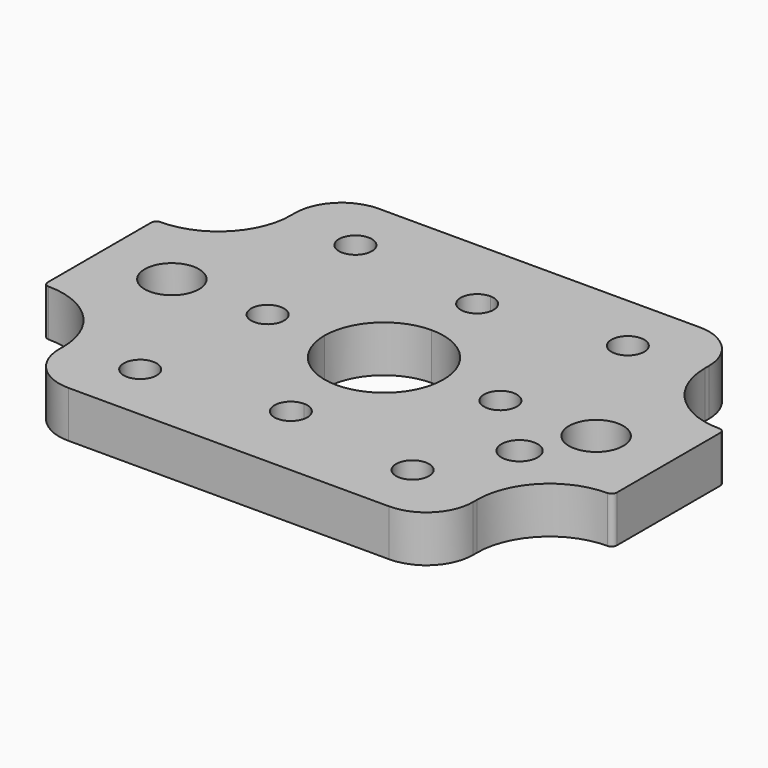
from build123d import *

# Parameters (mm, degrees)
F0_R     = 3.175
F0_R_2   = 3.5
F1_DEPTH = 9


with BuildPart() as f1:
    # F0 (on Top) → F1 (new body)
    with BuildSketch(Plane.XY):
        with BuildLine():
            Line((0, 25.675), (0, 37.5))
            Line((0, 37.5), (-31, 37.5))
            ThreePointArc((-31, 37.5), (-37.363961, 34.863961), (-40, 28.5))
            Line((-40, 28.5), (-40, 27.5))
            ThreePointArc((-40, 27.5), (-44.100505, 17.600505), (-54, 13.5))
            ThreePointArc((-54, 13.5), (-54.707107, 13.207107), (-55, 12.5))
            Line((-55, 12.5), (-55, 0))
            Line((-55, 0), (-46.25, 0))
            ThreePointArc((-46.25, 0), (-41, 5.25), (-35.75, 0))
            Line((-35.75, 0), (-25.675, 0))
            ThreePointArc((-25.675, 0), (-22.5, 3.175), (-19.325, 0))
            Line((-19.325, 0), (-11.5, 0))
            ThreePointArc((-11.5, 0), (-8.131728, 8.131728), (0, 11.5))
            Line((0, 11.5), (0, 19.325))
            ThreePointArc((0, 19.325), (-3.175, 22.5), (0, 25.675))
        make_face()
        with Locations((-26.324893, 26)):
            Circle(F0_R, mode=Mode.SUBTRACT)
        with BuildLine():
            Line((31, 37.5), (0, 37.5))
            Line((0, 37.5), (0, 25.675))
            ThreePointArc((0, 25.675), (2.245064, 24.745064), (3.175, 22.5))
            ThreePointArc((3.175, 22.5), (2.245064, 20.254936), (0, 19.325))
            Line((0, 19.325), (0, 11.5))
            ThreePointArc((0, 11.5), (8.131728, 8.131728), (11.5, 0))
            Line((11.5, 0), (19.325, 0))
            ThreePointArc((19.325, 0), (22.5, 3.175), (25.675, 0))
            Line((25.675, 0), (35.75, 0))
            ThreePointArc((35.75, 0), (41, 5.25), (46.25, 0))
            Line((46.25, 0), (55, 0))
            Line((55, 0), (55, 12.5))
            ThreePointArc((55, 12.5), (54.707107, 13.207107), (54, 13.5))
            ThreePointArc((54, 13.5), (44.100505, 17.600505), (40, 27.5))
            Line((40, 27.5), (40, 28.5))
            ThreePointArc((40, 28.5), (37.363961, 34.863961), (31, 37.5))
        make_face()
        with Locations((26.324893, 26)):
            Circle(F0_R, mode=Mode.SUBTRACT)
        with BuildLine():
            Line((19.325, 0), (11.5, 0))
            ThreePointArc((11.5, 0), (8.131728, -8.131728), (0, -11.5))
            Line((0, -11.5), (0, -19.325))
            ThreePointArc((0, -19.325), (2.245064, -20.254936), (3.175, -22.5))
            ThreePointArc((3.175, -22.5), (2.245064, -24.745064), (0, -25.675))
            Line((0, -25.675), (0, -37.5))
            Line((0, -37.5), (31, -37.5))
            ThreePointArc((31, -37.5), (37.363961, -34.863961), (40, -28.5))
            Line((40, -28.5), (40, -27.5))
            ThreePointArc((40, -27.5), (44.100505, -17.600505), (54, -13.5))
            ThreePointArc((54, -13.5), (54.707107, -13.207107), (55, -12.5))
            Line((55, -12.5), (55, 0))
            Line((55, 0), (46.25, 0))
            ThreePointArc((46.25, 0), (41, -5.25), (35.75, 0))
            Line((35.75, 0), (25.675, 0))
            ThreePointArc((25.675, 0), (22.5, -3.175), (19.325, 0))
        make_face()
        with Locations((26.324893, -26)):
            Circle(F0_R, mode=Mode.SUBTRACT)
        with Locations((35, -11)):
            Circle(F0_R_2, mode=Mode.SUBTRACT)
        with BuildLine():
            ThreePointArc((0, -11.5), (-8.131728, -8.131728), (-11.5, 0))
            Line((-11.5, 0), (-19.325, 0))
            ThreePointArc((-19.325, 0), (-22.5, -3.175), (-25.675, 0))
            Line((-25.675, 0), (-35.75, 0))
            ThreePointArc((-35.75, 0), (-41, -5.25), (-46.25, 0))
            Line((-46.25, 0), (-55, 0))
            Line((-55, 0), (-55, -12.5))
            ThreePointArc((-55, -12.5), (-54.707107, -13.207107), (-54, -13.5))
            ThreePointArc((-54, -13.5), (-44.100505, -17.600505), (-40, -27.5))
            Line((-40, -27.5), (-40, -28.5))
            ThreePointArc((-40, -28.5), (-37.363961, -34.863961), (-31, -37.5))
            Line((-31, -37.5), (0, -37.5))
            Line((0, -37.5), (0, -25.675))
            ThreePointArc((0, -25.675), (-3.175, -22.5), (0, -19.325))
            Line((0, -19.325), (0, -11.5))
        make_face()
        with Locations((-26.324893, -26)):
            Circle(F0_R, mode=Mode.SUBTRACT)
    extrude(amount=F1_DEPTH)


solid = f1.part
